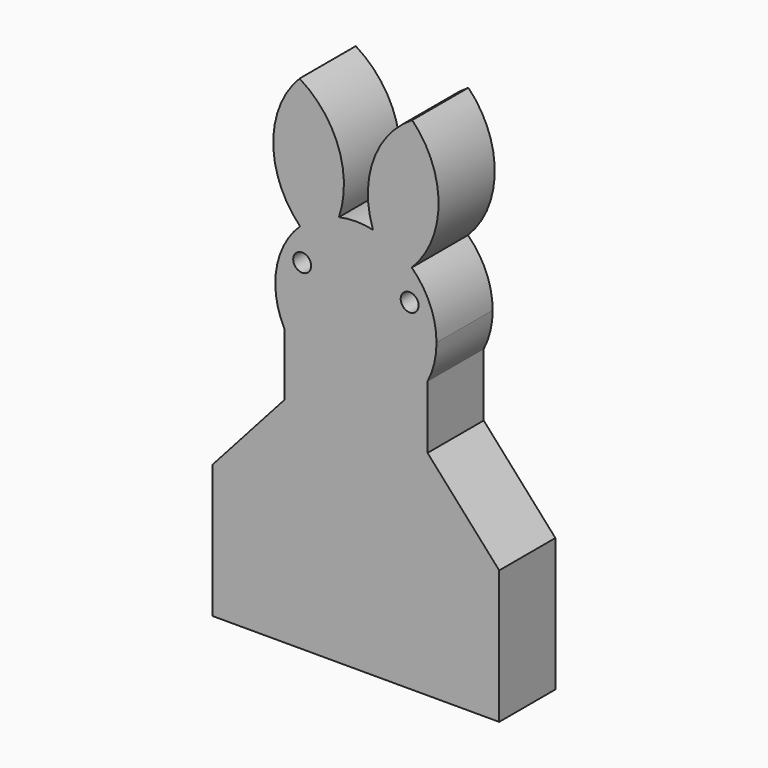
from build123d import *

# Parameters (mm, degrees)
F0_R     = 1.5875
F1_DEPTH = 12.446


with BuildPart() as f1:
    # F0 (on Front) → F1 (new body)
    with BuildSketch(Plane.XZ):
        with BuildLine():
            ThreePointArc((12.7, 49.01707), (13.884954, 52.194904), (14.2875, 55.5625))
            ThreePointArc((14.2875, 55.5625), (13.145426, 61.159858), (9.90179, 65.862365))
            ThreePointArc((9.90179, 65.862365), (6.713689, 68.174361), (3.015504, 69.52815))
            ThreePointArc((3.015504, 69.52815), (0, 69.85), (-3.015504, 69.52815))
            ThreePointArc((-3.015504, 69.52815), (-6.713689, 68.174361), (-9.90179, 65.862365))
            ThreePointArc((-9.90179, 65.862365), (-14.094368, 57.903748), (-12.7, 49.01707))
            ThreePointArc((-12.7, 49.01707), (0, 41.275), (12.7, 49.01707))
        make_face()
        with Locations((-9.525, 60.325)):
            Circle(F0_R, mode=Mode.SUBTRACT)
        with Locations((9.525, 60.325)):
            Circle(F0_R, mode=Mode.SUBTRACT)
        with BuildLine():
            ThreePointArc((3.015504, 69.52815), (6.713689, 68.174361), (9.90179, 65.862365))
            ThreePointArc((9.90179, 65.862365), (14.653286, 77.36424), (9.984657, 88.9))
            ThreePointArc((9.984657, 88.9), (3.092458, 80.43999), (3.015504, 69.52815))
        make_face()
        with BuildLine():
            Line((12.7, 37.847897), (12.7, 49.01707))
            ThreePointArc((12.7, 49.01707), (0, 41.275), (-12.7, 49.01707))
            Line((-12.7, 49.01707), (-12.7, 37.847897))
            Line((-12.7, 37.847897), (-25.4, 23.642801))
            Line((-25.4, 23.642801), (-25.4, 0))
            Line((-25.4, 0), (0, 0))
            Line((0, 0), (25.4, 0))
            Line((25.4, 0), (25.4, 23.642801))
            Line((25.4, 23.642801), (12.7, 37.847897))
        make_face()
        with BuildLine():
            ThreePointArc((-9.90179, 65.862365), (-6.713689, 68.174361), (-3.015504, 69.52815))
            ThreePointArc((-3.015504, 69.52815), (-3.092458, 80.43999), (-9.984657, 88.9))
            ThreePointArc((-9.984657, 88.9), (-14.653286, 77.36424), (-9.90179, 65.862365))
        make_face()
    extrude(amount=-F1_DEPTH)


solid = f1.part
